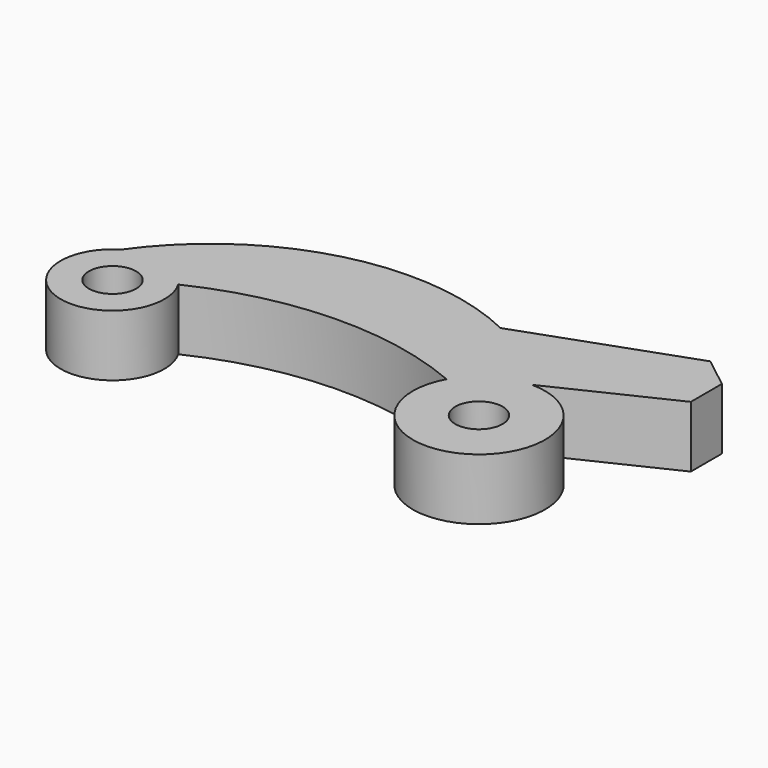
from build123d import *

# Parameters (mm, degrees)
F1_DEPTH = 6.5
F2_R     = 2.5
F3_DEPTH = 8


with BuildPart() as f1:
    # F0 (on Top) → F1 (new body)
    with BuildSketch(Plane.XY):
        with BuildLine():
            ThreePointArc((-34.035903, 2.760554), (-20.149213, 6.068291), (-6.129181, 3.381293))
            ThreePointArc((-6.129181, 3.381293), (3.558859, -6.027813), (0, 7))
            ThreePointArc((0, 7), (-3.86946, 10.575604), (-8.367613, 13.318645))
            ThreePointArc((-8.367613, 13.318645), (-26.574298, 15.09931), (-41.627142, 4.703827))
            ThreePointArc((-41.627142, 4.703827), (-40.14959, -5.323154), (-34.035903, 2.760554))
        make_face()
        with BuildLine():
            ThreePointArc((-8.367613, 13.318645), (-3.86946, 10.575604), (0, 7))
            Line((0, 7), (12.165275, 12.823824))
            Line((12.165275, 12.823824), (12.165275, 16.940814))
            Line((12.165275, 16.940814), (8.897662, 19.496433))
            Line((8.897662, 19.496433), (-8.367613, 13.318645))
        make_face()
    extrude(amount=F1_DEPTH)

    # F2 (on face) → F3 (cut)
    with BuildSketch(Plane.XY.offset(6.5)):
        Circle(F2_R)
        with Locations((-38.786922, 0)):
            Circle(F2_R)
    extrude(amount=-F3_DEPTH, mode=Mode.SUBTRACT)


solid = f1.part
